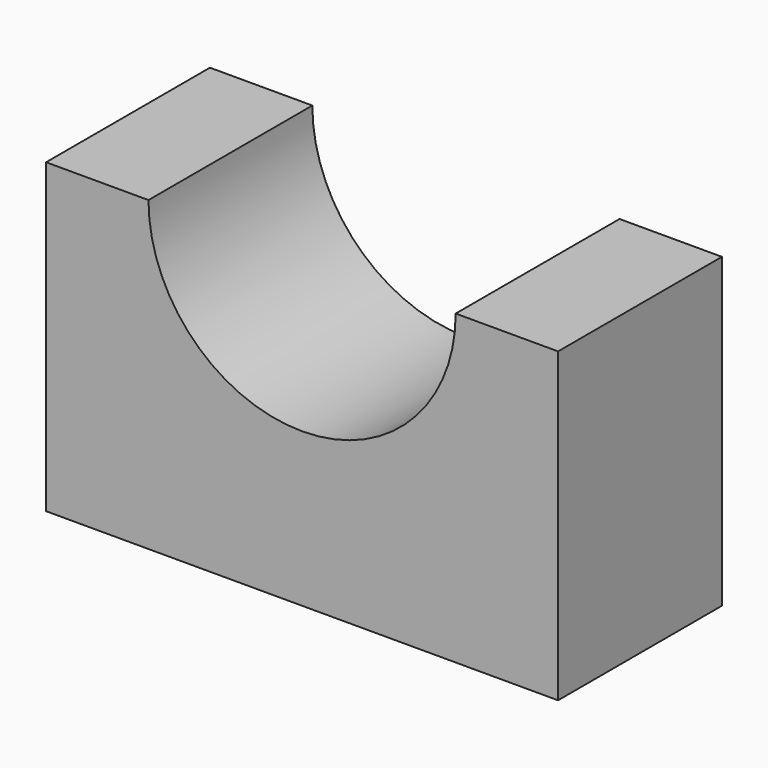
from build123d import *

# Parameters (mm, degrees)
F0_W     = 63.5
F0_H     = 38.1
F1_DEPTH = 25.4
F3_DEPTH = 25.401


with BuildPart() as f1:
    # F0 (on Front) → F1 (new body)
    with BuildSketch(Plane.XZ):
        with Locations((-43.105035, 19.05)):
            Rectangle(F0_W, F0_H)
        with Locations((-43.105035, 19.05)):
            Rectangle(F0_W, F0_H)
    extrude(amount=F1_DEPTH)

    # F2 (on face) → F3 (cut, through all)
    with BuildSketch(Plane.XZ.offset(25.4)):
        with BuildLine():
            Line((-24.055035, 38.1), (-62.155035, 38.1))
            ThreePointArc((-62.155035, 38.1), (-43.105035, 19.05), (-24.055035, 38.1))
        make_face()
    extrude(amount=-F3_DEPTH, mode=Mode.SUBTRACT)


solid = f1.part
